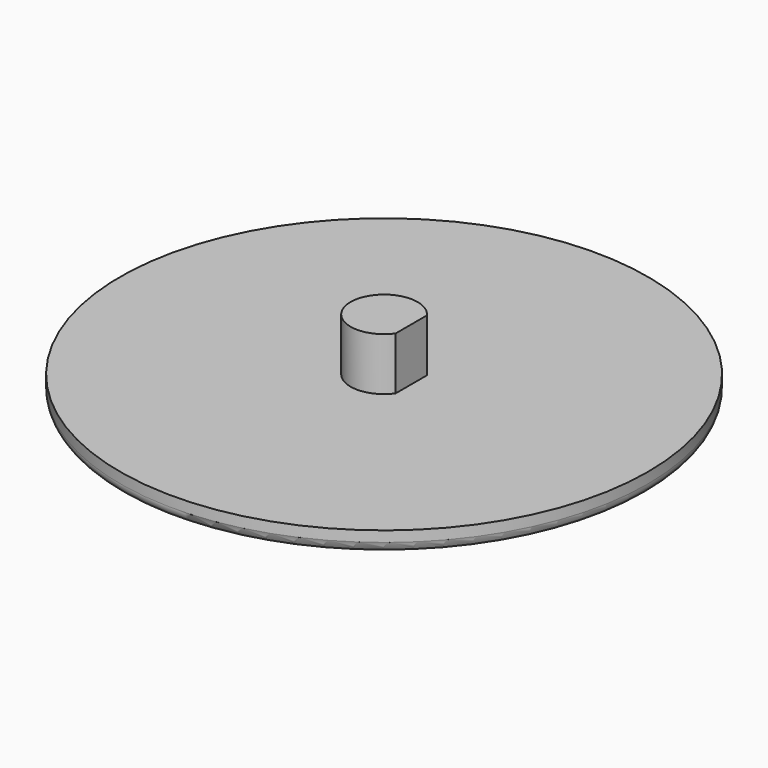
from build123d import *

# Parameters (mm, degrees)
SKETCH_R        = 25
PAD_DEPTH       = 15
PAD001_DEPTH    = 10
PAD001_FACE2_R  = 25
POCKET_DEPTH    = 13
POCKET001_DEPTH = 5
FILLET_R        = 1


with BuildPart() as part:
    # Sketch → Pad (new body)
    with BuildSketch(Plane.XY):
        Circle(SKETCH_R)
    extrude(amount=PAD_DEPTH)

    # Sketch001 (on Face3 of Pad) → Pad001 (join)
    with BuildSketch(Plane.XY.offset(15)):
        with BuildLine():
            ThreePointArc((2.575, 1.857418), (-3.175, 0), (2.575, -1.857418))
            Line((2.575, 1.857418), (2.575, -1.857418))
        make_face()
    extrude(amount=PAD001_DEPTH)

    # Pad001 Face2 → Pocket (cut)
    with BuildSketch(Plane(origin=(0, 0, 0), x_dir=(0, -1, 0), z_dir=(0, 0, -1))):
        Circle(PAD001_FACE2_R)
    extrude(amount=-POCKET_DEPTH, mode=Mode.SUBTRACT)

    # Pocket Face6 → Pocket001 (cut)
    with BuildSketch(Plane(origin=(-0.141681, 0, 25), x_dir=(0, 1, 0), z_dir=(0, 0, 1))):
        with BuildLine():
            ThreePointArc((1.857418, -2.716681), (0, 3.033319), (-1.857418, -2.716681))
            Line((-1.857418, -2.716681), (1.857418, -2.716681))
        make_face()
    extrude(amount=-POCKET001_DEPTH, mode=Mode.SUBTRACT)

    # Fillet
    fillet_edges = [part.edges().sort_by_distance(p)[0] for p in [
        (-25, 0, 13),
    ]]
    fillet(fillet_edges, radius=FILLET_R)


solid = part.part
